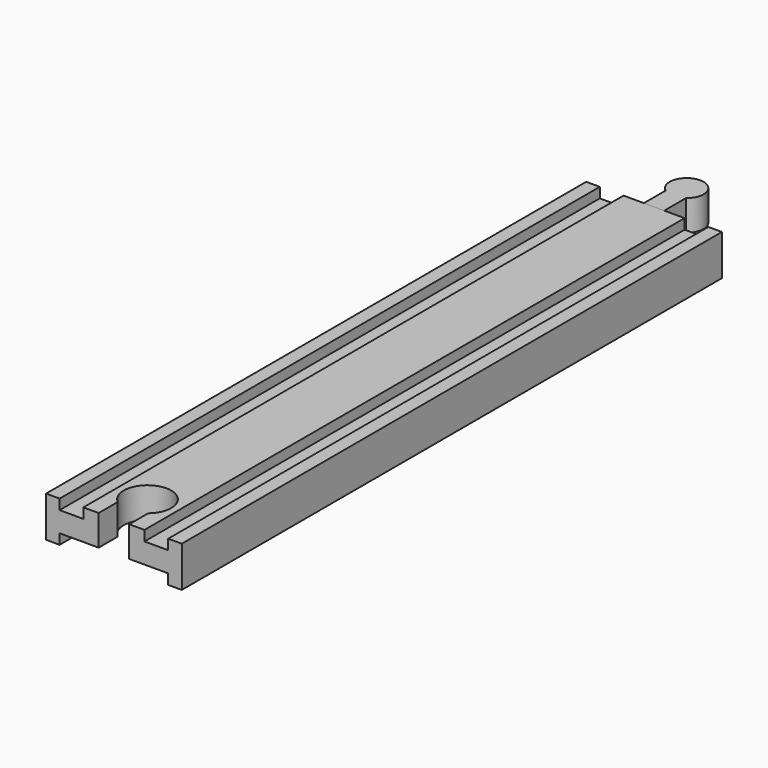
from build123d import *

# Parameters (mm, degrees)
PAD_DEPTH         = 199
POCKET_DEPTH      = 12.001
PAD001_DEPTH      = 6
PAD001_DEPTH_BACK = 3


with BuildPart() as body:
    # Sketch → Pad (new body)
    with BuildSketch(Plane.XZ):
        Polygon((-20, 6), (-20, -6), (-16, -6), (-16, -3), (-9, -3), (9, -3), (16, -3), (16, -6), (20, -6), (20, 6), (16, 6), (16, 3), (9, 3), (9, 6), (-9, 6), (-9, 3), (-16, 3), (-16, 6), align=None)
    extrude(amount=PAD_DEPTH)

    # Sketch002 (on Face14 of Pad) → Pocket (cut, through all)
    with BuildSketch(Plane(origin=(0, 0, 6), x_dir=(-1, 0, 0), z_dir=(0, 0, 1))):
        with BuildLine():
            Line((-4.5, 199), (4.5, 199))
            Line((4.5, 199), (4.5, 192))
            ThreePointArc((-4.5, 192), (0, 179.638097), (4.5, 192))
            Line((-4.5, 199), (-4.5, 192))
        make_face()
    extrude(amount=-POCKET_DEPTH, mode=Mode.SUBTRACT)


with BuildPart() as body001:
    # Sketch001 → Pad001 (new body, two sides)
    with BuildSketch(Plane.XY) as pad001_sk:
        with BuildLine():
            Line((-3, 0), (3, 0))
            Line((3, 0), (3, 8))
            ThreePointArc((3, 8), (0, 17), (-3, 8))
            Line((-3, 0), (-3, 8))
        make_face()
    extrude(amount=PAD001_DEPTH)
    extrude(pad001_sk.sketch, amount=-PAD001_DEPTH_BACK)


solid = Compound([body.part, body001.part])
